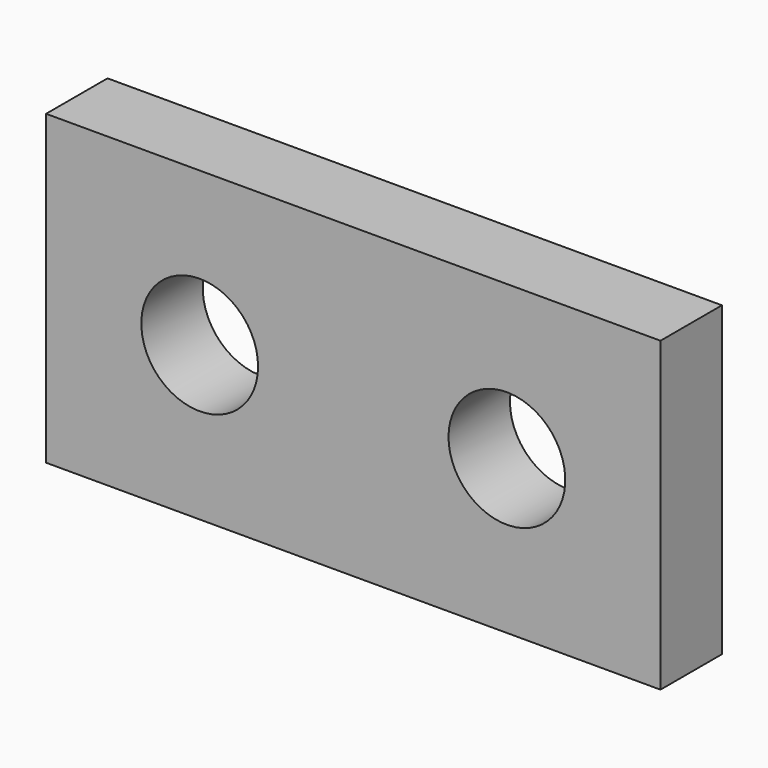
from build123d import *

# Parameters (mm, degrees)
F0_W     = 25.4
F0_H     = 25.4
F0_R     = 4.826
F1_DEPTH = 6.35


with BuildPart() as f1:
    # F0 (on Front) → F1 (new body)
    with BuildSketch(Plane.XZ):
        with Locations((-89.112837, 28.743369)):
            Rectangle(F0_W, F0_H)
        with Locations((-89.112837, 28.743369)):
            Circle(F0_R, mode=Mode.SUBTRACT)
    extrude(amount=F1_DEPTH)

    # F2: F1 across face


with BuildPart() as f1_1:
    add(f1.part)
    add(f1.part.mirror(Plane(origin=(-76.412837, -3.175, 28.743369), x_dir=(0, 1, 0), z_dir=(1, 0, 0))))


solid = f1_1.part
